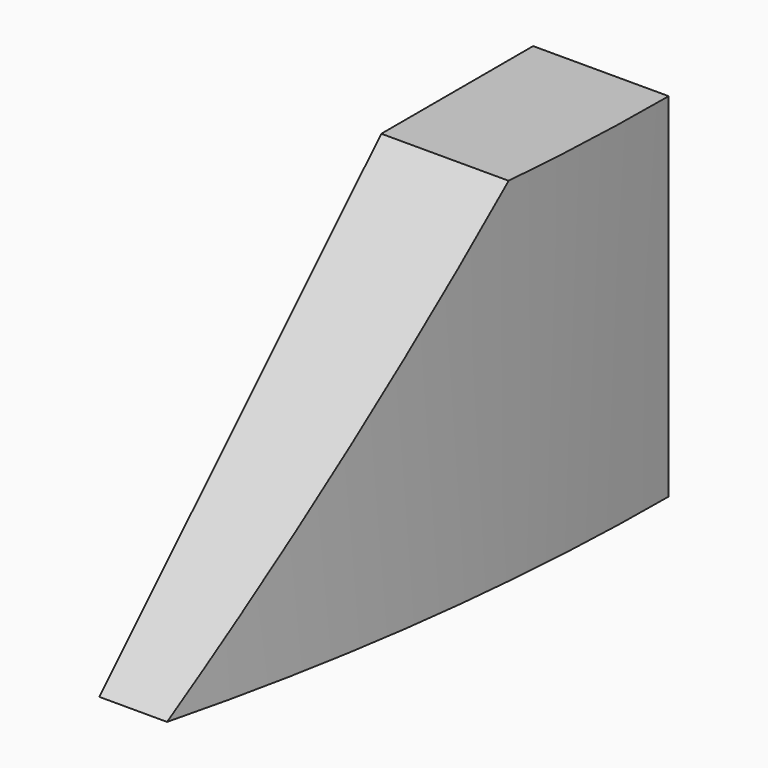
from build123d import *

# Parameters (mm, degrees)
F0_R     = 6.35
F1_DEPTH = 12.7
F2_DEPTH = 3.81
F4_DEPTH = 50.8


with BuildPart() as f1:
    # F0 (on Right) → F1 (new body)
    with BuildSketch(Plane.YZ):
        Polygon((-37.380086, 54.002845), (-70.400086, 20.982845), (-19.600086, 20.982845), (-19.600086, 54.002845), align=None)
        with Locations((-28.490086, 29.872845)):
            Circle(F0_R, mode=Mode.SUBTRACT)
        with Locations((-28.490086, 29.872845)):
            Circle(F0_R)
    extrude(amount=F1_DEPTH)

    # F0 (on Right) → F2 (cut)
    with BuildSketch(Plane.YZ):
        with Locations((-28.490086, 29.872845)):
            Circle(F0_R)
    extrude(amount=F2_DEPTH, mode=Mode.SUBTRACT)

    # F3 (on face) → F4 (cut)
    with BuildSketch(Plane(origin=(0, 0, 20.982845), x_dir=(1, 0, 0), z_dir=(0, 0, -1))):
        with BuildLine():
            ThreePointArc((6.35, 70.400086), (11.106347, 45.197754), (12.7, 19.600086))
            Line((12.7, 19.600086), (12.7, 70.400086))
            Line((12.7, 70.400086), (6.35, 70.400086))
        make_face()
    extrude(amount=-F4_DEPTH, mode=Mode.SUBTRACT)


solid = f1.part
